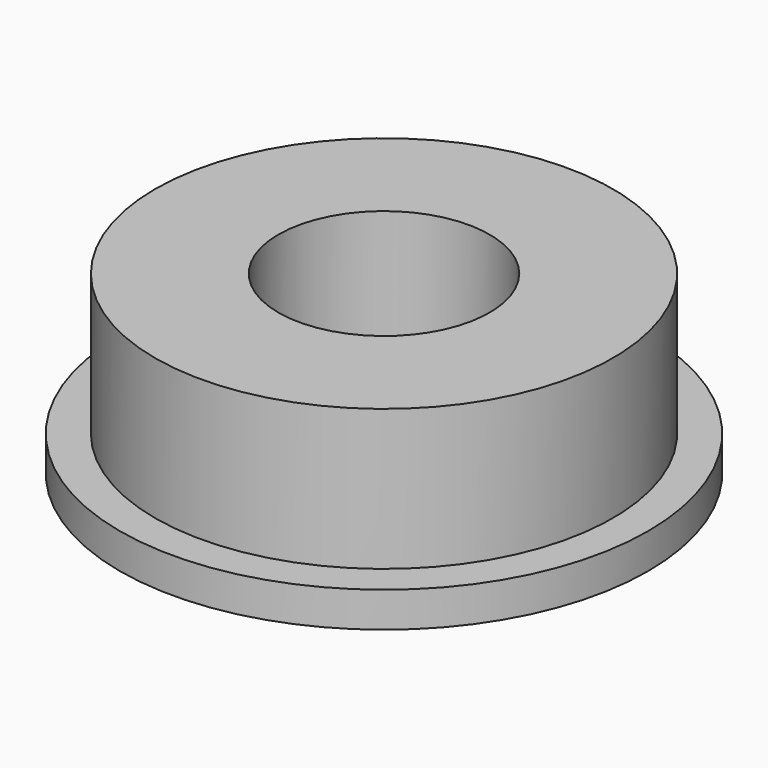
from build123d import *


with BuildPart() as part:
    # Sketch → Revolution (revolve)
    with BuildSketch(Plane.XZ):
        Polygon((-3, 0), (-7.5, 0), (-7.5, 1), (-6.5, 1), (-6.5, 5), (-3, 5), align=None)
    revolve(axis=Axis((0, 0, 0), (0, 0, 1)))


solid = part.part
